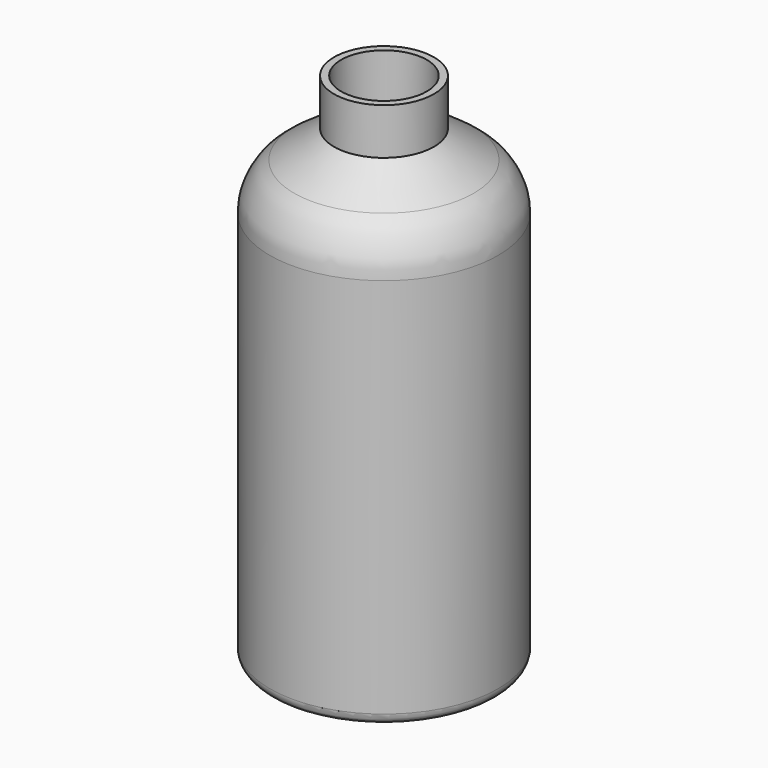
from build123d import *

# Parameters (mm, degrees)
F2_R = 25.4
F3_R = 5.08


with BuildPart() as f1:
    # F0 (on Front) → F1 (revolve)
    with BuildSketch(Plane.XZ):
        Polygon((22.225, 228.6), (19.05, 228.6), (19.05, 202.88843), (47.625, 182.88), (47.625, 3.175), (0, 3.175), (0, 0), (47.625, 0), (50.8, 0), (50.8, 187.96), (22.225, 207.96843), align=None)
    revolve(axis=Axis((0, 0, 114.3), (0, 0, 1)))

    # F2
    f2_edges = [f1.edges().sort_by_distance(p)[0] for p in [
        (-50.8, 0, 187.96),
    ]]
    fillet(f2_edges, radius=F2_R)

    # F3
    f3_edges = [f1.edges().sort_by_distance(p)[0] for p in [
        (-50.8, 0, 0),
    ]]
    fillet(f3_edges, radius=F3_R)


solid = f1.part
